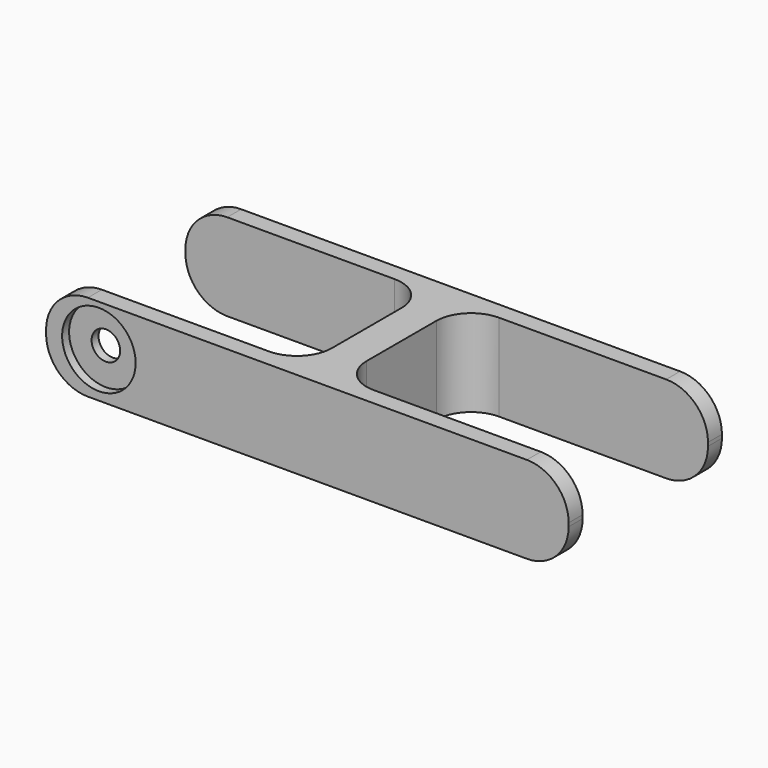
from build123d import *

# Parameters (mm, degrees)
CYLINDER018_R          = 4.1
CYLINDER018_DEPTH      = 10
CYLINDER018_ROLL_ANGLE = 90
CYLINDER016_R          = 10.55
CYLINDER016_DEPTH      = 10
CYLINDER016_ROLL_ANGLE = 90
PAD_DEPTH              = 25
FILLET004_R            = 12


with BuildPart() as cilindro018:
    # Cylinder018 → Cylinder018 (new body)
    with BuildSketch(Plane.XY):
        Circle(CYLINDER018_R)
    extrude(amount=CYLINDER018_DEPTH)


with BuildPart() as cilindro018_1:
    # Cylinder018 roll: moved
    add(cilindro018.part.rotate(Axis((0, 0, 0), (1, 0, 0)), CYLINDER018_ROLL_ANGLE))


with BuildPart() as cilindro018_2:
    # Cylinder018 placement: moved
    add(cilindro018_1.part.moved(Location((0, -14, 0))))


with BuildPart() as obj1:
    # Cylinder016 → Cylinder016 (new body)
    with BuildSketch(Plane.XY):
        Circle(CYLINDER016_R)
    extrude(amount=CYLINDER016_DEPTH)


with BuildPart() as obj1_1:
    # Cylinder016 roll: moved
    add(obj1.part.rotate(Axis((0, 0, 0), (1, 0, 0)), CYLINDER016_ROLL_ANGLE))


with BuildPart() as obj1_2:
    # Cylinder016 placement: moved
    add(obj1_1.part.moved(Location((0, -22.5, 0))))

    # Fusion001: union Cilindro018
    add(cilindro018_2.part)


with BuildPart() as cut023003:
    # Sketch → Pad (new body)
    with BuildSketch(Plane.XY):
        with BuildLine():
            Line((-25, -30), (-25, -25))
            Line((-25, -25), (35, -25))
            ThreePointArc((35, -25), (42.071068, -22.071068), (45, -15))
            Line((45, -15), (45, 10))
            ThreePointArc((45, 10), (42.071068, 17.071068), (35, 20))
            Line((35, 20), (-25, 20))
            Line((-25, 20), (-25, 25))
            Line((-25, 25), (125, 25))
            Line((125, 25), (125, 20))
            Line((125, 20), (65, 20))
            ThreePointArc((65, 20), (57.928932, 17.071068), (55, 10))
            Line((55, 10), (55, -15))
            ThreePointArc((55, -15), (57.928932, -22.071068), (65, -25))
            Line((65, -25), (125, -25))
            Line((125, -25), (125, -30))
            Line((125, -30), (-25, -30))
        make_face()
    extrude(amount=PAD_DEPTH)

    # Fillet004
    fillet004_edges = [cut023003.edges().sort_by_distance(p)[0] for p in [
        (-25, -27.5, 0),
        (-25, -27.5, 25),
        (-25, 22.5, 0),
        (-25, 22.5, 25),
        (125, 22.5, 0),
        (125, 22.5, 25),
        (125, -27.5, 0),
        (125, -27.5, 25),
    ]]
    fillet(fillet004_edges, radius=FILLET004_R)


with BuildPart() as cut023003_1:
    # Fillet004 placement: moved
    add(cut023003.part.moved(Location((9.841811, 4.997794, -12.933897))))

    # Cut023003: cut obj1
    add(obj1_2.part, mode=Mode.SUBTRACT)


solid = cut023003_1.part
